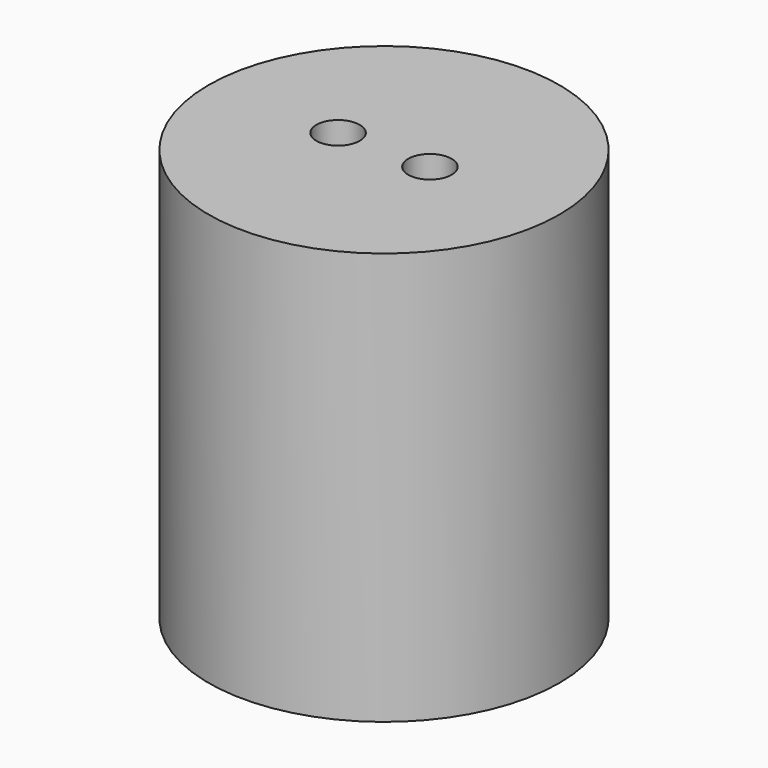
from build123d import *

# Parameters (mm, degrees)
SKETCH_R     = 4.85
PAD_DEPTH    = 11.4
SKETCH001_R  = 0.6
POCKET_DEPTH = 11.401


with BuildPart() as part:
    # Sketch → Pad (new body)
    with BuildSketch(Plane.XY):
        Circle(SKETCH_R)
    extrude(amount=PAD_DEPTH)

    # Sketch001 (on Face3 of Pad) → Pocket (cut, through all)
    with BuildSketch(Plane.XY.offset(11.4)):
        with Locations((-1.27, 0)):
            Circle(SKETCH001_R)
        with Locations((1.27, 0)):
            Circle(SKETCH001_R)
    extrude(amount=-POCKET_DEPTH, mode=Mode.SUBTRACT)


solid = part.part
